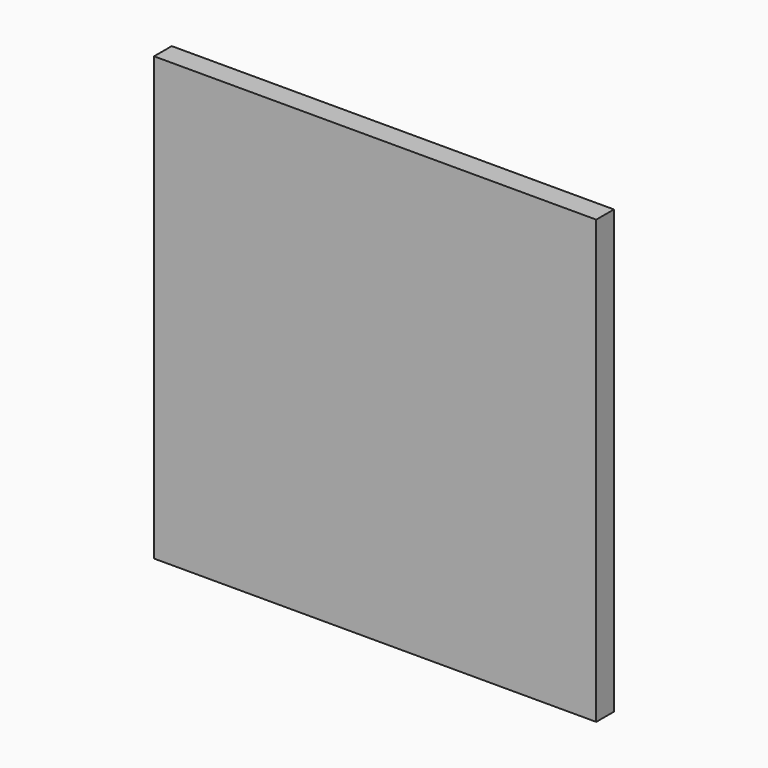
from build123d import *

# Parameters (mm, degrees)
F0_W     = 2000
F0_H     = 2000
F1_DEPTH = 100
F2_R     = 50
F2_R_2   = 54.251407
F3_DEPTH = 300


with BuildPart() as f1:
    # F0 (on Front) → F1 (new body)
    with BuildSketch(Plane.XZ):
        with Locations((-8.939937, 483.27489)):
            Rectangle(F0_W, F0_H)
    extrude(amount=F1_DEPTH)

    # F2 (on face) → F3 (join)
    with BuildSketch(Plane.XZ.offset(100)):
        with Locations((-232.198777, 483.27489)):
            Circle(F2_R)
        with Locations((317.801223, 483.27489)):
            Circle(F2_R_2)
    extrude(amount=-F3_DEPTH)


solid = f1.part
